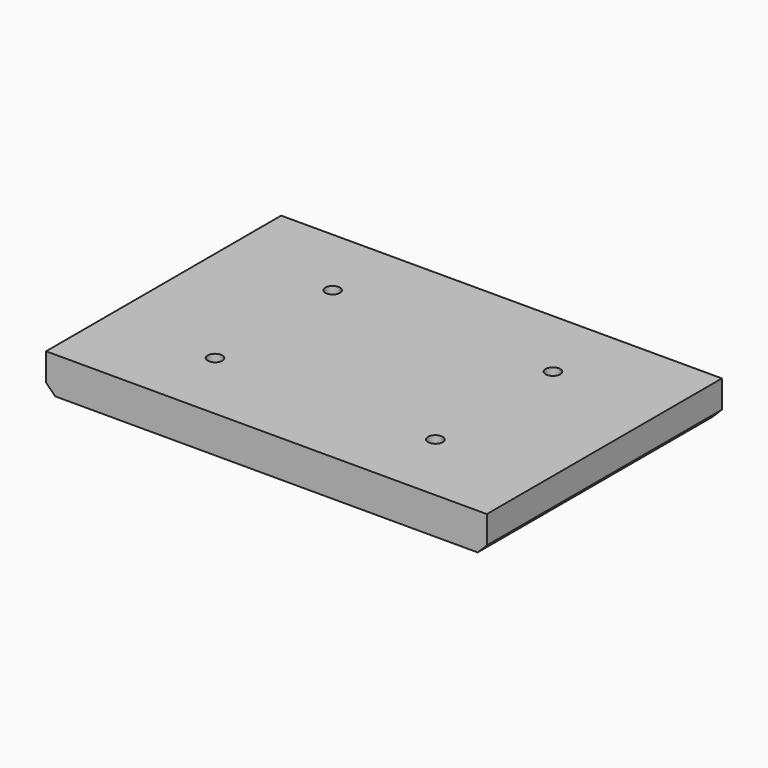
from build123d import *

# Parameters (mm, degrees)
F0_W           = 304.8
F0_H           = 25.4
F1_DEPTH       = 101.6
F2_SIZE        = 6.35
F4_D           = 10.0838
F4_CSINK_D     = 19.8374
F4_CSINK_ANGLE = 82


with BuildPart() as f1:
    # F0 (on Front) → F1 (new body, symmetric)
    with BuildSketch(Plane.XZ):
        Rectangle(F0_W, F0_H)
    extrude(amount=F1_DEPTH, both=True)

    # F2
    f2_edges = [f1.edges().sort_by_distance(p)[0] for p in [
        (152.4, 0, -12.7),
        (-152.4, 0, -12.7),
    ]]
    chamfer(f2_edges, length=F2_SIZE)

    # F4 (through all)
    with Locations(Plane(origin=(0, 0, -12.7), x_dir=(1, 0, 0), z_dir=(0, 0, -1))):
        with Locations((-76.2, 50.8), (76.2, 50.8), (76.2, -50.8), (-76.2, -50.8)):
            CounterSinkHole(F4_D / 2, F4_CSINK_D / 2, counter_sink_angle=F4_CSINK_ANGLE)


solid = f1.part
